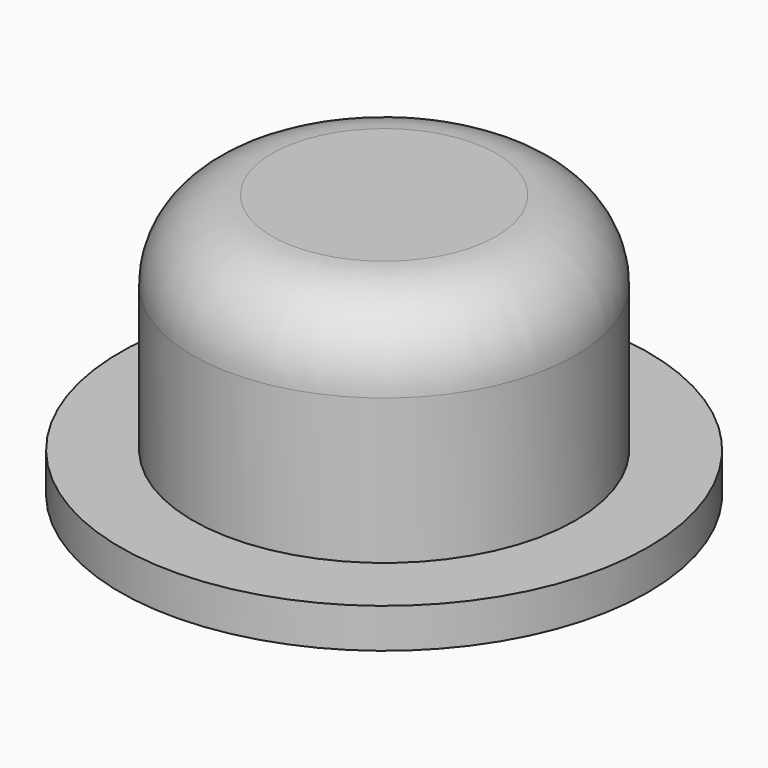
from build123d import *

# Parameters (mm, degrees)
F0_R     = 20
F0_R_2   = 14.5
F1_DEPTH = 3
F0_R_3   = 12.5
F2_DEPTH = 20
F3_R     = 13.014075
F4_DEPTH = 4
F5_R     = 6


with BuildPart() as f1:
    # F0 (on Top) → F1 (new body)
    with BuildSketch(Plane.XY):
        Circle(F0_R)
        Circle(F0_R_2, mode=Mode.SUBTRACT)
    extrude(amount=F1_DEPTH)

    # F0 (on Top) → F2 (join)
    with BuildSketch(Plane.XY):
        Circle(F0_R_2)
        Circle(F0_R_3, mode=Mode.SUBTRACT)
    extrude(amount=F2_DEPTH)

    # F3 (on face) → F4 (join)
    with BuildSketch(Plane.XY.offset(20)):
        Circle(F3_R)
    extrude(amount=-F4_DEPTH)

    # F5
    f5_edges = [f1.edges().sort_by_distance(p)[0] for p in [
        (-14.5, 0, 20),
    ]]
    fillet(f5_edges, radius=F5_R)


solid = f1.part
